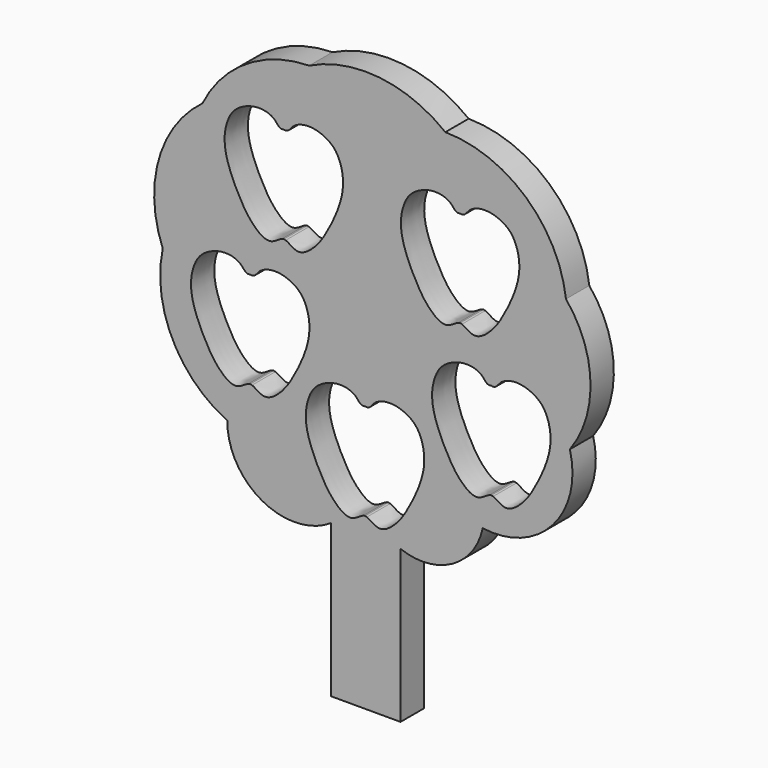
from build123d import *

# Parameters (mm, degrees)
F1_DEPTH = 10


with BuildPart() as f1:
    # F0 (on Front) → F1 (new body)
    with BuildSketch(Plane.XZ):
        with BuildLine():
            ThreePointArc((-55.0221759697, 53.7752209797), (-70.04246905, 31.9306491766), (-68.6410428362, 5.4574452519))
            ThreePointArc((-68.6410428362, 5.4574452519), (-65.3463944848, -20.7921357055), (-46.4886293933, -39.346916867))
            ThreePointArc((-46.4886293933, -39.346916867), (-34.4822621565, -59.6694789964), (-10.8979146439, -58.7010069363))
            Line((-10.8979146439, -58.7010069363), (-10.8979146439, -111.0147237778))
            Line((-10.8979146439, -111.0147237778), (12.958467938, -111.0147237778))
            Line((12.958467938, -111.0147237778), (12.958467938, -58.7010069363))
            ThreePointArc((12.958467938, -58.7010069363), (30.6230560256, -57.5221463701), (41.1689324294, -43.3020241689))
            ThreePointArc((41.1689324294, -43.3020241689), (65.1490821133, -34.5689265367), (71.0811689496, -9.7470628098))
            ThreePointArc((71.0811689496, -9.7470628098), (78.1656779108, 12.9733519988), (69.7538852692, 35.2365337312))
            ThreePointArc((69.7538852692, 35.2365337312), (56.0091120493, 61.5057285022), (28.3521022648, 72.1865147352))
            ThreePointArc((28.3521022648, 72.1865147352), (5.683401235, 81.348077967), (-18.3918476105, 77.0834982395))
            ThreePointArc((-18.3918476105, 77.0834982395), (-39.9820334942, 70.5762488055), (-55.0221759697, 53.7752209797))
        make_face()
        with BuildLine():
            add(Edge.make_bspline(
                [(0.7816050202, -19.6077078231), (-0.7980215026, -20.0845219521), (-1.9346121315, -16.9422810991), (-8.2942120837, -15.0926358593), (-15.3470111495, -17.82254635), (-18.8281511885, -22.6171471508), (-20.6271102372, -32.254706591), (-14.3615004988, -45.6827956415), (-9.9866279863, -52.0488902731), (-4.1460982187, -56.2817105885), (-0.985007439, -53.297327387), (0.1487659705, -52.8680482143)],
                knots=[0, 0, 0, 0, 0.0738359991, 0.1697784616, 0.2736968542, 0.3649262349, 0.4831888416, 0.631218602, 0.7423655569, 0.8384222869, 0.9112378734, 0.9112378734, 0.9112378734, 0.9112378734], degree=3))
            add(Edge.make_bspline(
                [(0.7816050202, -19.6077078231), (2.361231543, -20.0845219521), (3.4978221718, -16.9422810991), (9.857422124, -15.0926358593), (16.9102211898, -17.82254635), (20.3913612288, -22.6171471508), (22.1903202776, -32.254706591), (15.9247105391, -45.6827956415), (11.5498380267, -52.0488902731), (5.7093082591, -56.2817105885), (2.5482174793, -53.297327387), (1.4144440698, -52.8680482143)],
                knots=[0, 0, 0, 0, 0.0738359991, 0.1697784616, 0.2736968542, 0.3649262349, 0.4831888416, 0.631218602, 0.7423655569, 0.8384222869, 0.9112378734, 0.9112378734, 0.9112378734, 0.9112378734], degree=3))
            add(Edge.make_bspline(
                [(1.4144440698, -52.8680482143), (1.1944736707, -52.7847611041), (0.9831327016, -52.7337540842), (0.7816050019, -52.7288084496)],
                knots=[0.9112378734, 0.9112378734, 0.9112378734, 0.9112378734, 0.9253652762, 0.9253652762, 0.9253652762, 0.9253652762], degree=3))
            add(Edge.make_bspline(
                [(0.1487659705, -52.8680482143), (0.3687363696, -52.7847611041), (0.5800773196, -52.7337540888), (0.7816050019, -52.7288084505)],
                knots=[0.9112378734, 0.9112378734, 0.9112378734, 0.9112378734, 0.9253652762, 0.9253652762, 0.9253652762, 0.9253652762], degree=3))
        make_face(mode=Mode.SUBTRACT)
        with BuildLine():
            add(Edge.make_bspline(
                [(44.1311465162, 0.7165716961), (42.5515199934, 0.2397575672), (41.4149293645, 3.3819984201), (35.0553294123, 5.2316436599), (28.0025303465, 2.5017331693), (24.5213903075, -2.2928676316), (22.7224312588, -11.9304270717), (28.9880409972, -25.3585161222), (33.3629135097, -31.7246107538), (39.2034432773, -35.9574310693), (42.364534057, -32.9730478678), (43.4983074665, -32.5437686951)],
                knots=[0, 0, 0, 0, 0.0738359991, 0.1697784616, 0.2736968542, 0.3649262349, 0.4831888416, 0.631218602, 0.7423655569, 0.8384222869, 0.9112378734, 0.9112378734, 0.9112378734, 0.9112378734], degree=3))
            add(Edge.make_bspline(
                [(44.1311465162, 0.7165716961), (45.710773039, 0.2397575672), (46.8473636678, 3.3819984201), (53.20696362, 5.2316436599), (60.2597626858, 2.5017331693), (63.7409027248, -2.2928676316), (65.5398617736, -11.9304270717), (59.2742520351, -25.3585161222), (54.8993795226, -31.7246107538), (49.0588497551, -35.9574310693), (45.8977589753, -32.9730478678), (44.7639855658, -32.5437686951)],
                knots=[0, 0, 0, 0, 0.0738359991, 0.1697784616, 0.2736968542, 0.3649262349, 0.4831888416, 0.631218602, 0.7423655569, 0.8384222869, 0.9112378734, 0.9112378734, 0.9112378734, 0.9112378734], degree=3))
            add(Edge.make_bspline(
                [(44.7639855658, -32.5437686951), (44.5440151667, -32.4604815849), (44.3326741976, -32.409474565), (44.1311464979, -32.4045289303)],
                knots=[0.9112378734, 0.9112378734, 0.9112378734, 0.9112378734, 0.9253652762, 0.9253652762, 0.9253652762, 0.9253652762], degree=3))
            add(Edge.make_bspline(
                [(43.4983074665, -32.5437686951), (43.7182778656, -32.4604815849), (43.9296188156, -32.4094745696), (44.1311464979, -32.4045289312)],
                knots=[0.9112378734, 0.9112378734, 0.9112378734, 0.9112378734, 0.9253652762, 0.9253652762, 0.9253652762, 0.9253652762], degree=3))
        make_face(mode=Mode.SUBTRACT)
        with BuildLine():
            add(Edge.make_bspline(
                [(-38.6194912717, 7.4185440317), (-40.1991177945, 6.9417299027), (-41.3357084233, 10.0839707557), (-47.6953083755, 11.9336159955), (-54.7481074413, 9.2037055048), (-58.2292474803, 4.409104704), (-60.0282065291, -5.2284547362), (-53.7625967907, -18.6565437866), (-49.3877242782, -25.0226384183), (-43.5471945106, -29.2554587337), (-40.3861037308, -26.2710755322), (-39.2523303213, -25.8417963595)],
                knots=[0, 0, 0, 0, 0.0738359991, 0.1697784616, 0.2736968542, 0.3649262349, 0.4831888416, 0.631218602, 0.7423655569, 0.8384222869, 0.9112378734, 0.9112378734, 0.9112378734, 0.9112378734], degree=3))
            add(Edge.make_bspline(
                [(-38.6194912717, 7.4185440317), (-37.0398647489, 6.9417299027), (-35.90327412, 10.0839707557), (-29.5436741679, 11.9336159955), (-22.490875102, 9.2037055048), (-19.009735063, 4.409104704), (-17.2107760143, -5.2284547362), (-23.4763857527, -18.6565437866), (-27.8512582652, -25.0226384183), (-33.6917880328, -29.2554587337), (-36.8528788125, -26.2710755322), (-37.986652222, -25.8417963595)],
                knots=[0, 0, 0, 0, 0.0738359991, 0.1697784616, 0.2736968542, 0.3649262349, 0.4831888416, 0.631218602, 0.7423655569, 0.8384222869, 0.9112378734, 0.9112378734, 0.9112378734, 0.9112378734], degree=3))
            add(Edge.make_bspline(
                [(-37.986652222, -25.8417963595), (-38.2066226211, -25.7585092493), (-38.4179635903, -25.7075022294), (-38.6194912899, -25.7025565948)],
                knots=[0.9112378734, 0.9112378734, 0.9112378734, 0.9112378734, 0.9253652762, 0.9253652762, 0.9253652762, 0.9253652762], degree=3))
            add(Edge.make_bspline(
                [(-39.2523303213, -25.8417963595), (-39.0323599222, -25.7585092493), (-38.8210189722, -25.707502234), (-38.6194912899, -25.7025565957)],
                knots=[0.9112378734, 0.9112378734, 0.9112378734, 0.9112378734, 0.9253652762, 0.9253652762, 0.9253652762, 0.9253652762], degree=3))
        make_face(mode=Mode.SUBTRACT)
        with BuildLine():
            add(Edge.make_bspline(
                [(-27.0840385929, 54.9582471489), (-28.6636651157, 54.48143302), (-29.8002557445, 57.623673873), (-36.1598556967, 59.4733191128), (-43.2126547625, 56.7434086221), (-46.6937948015, 51.9488078213), (-48.4927538503, 42.3112483811), (-42.2271441119, 28.8831593306), (-37.8522715994, 22.517064699), (-32.0117418318, 18.2842443835), (-28.850651052, 21.2686275851), (-27.7168776425, 21.6979067577)],
                knots=[0, 0, 0, 0, 0.0738359991, 0.1697784616, 0.2736968542, 0.3649262349, 0.4831888416, 0.631218602, 0.7423655569, 0.8384222869, 0.9112378734, 0.9112378734, 0.9112378734, 0.9112378734], degree=3))
            add(Edge.make_bspline(
                [(-27.0840385929, 54.9582471489), (-25.5044120701, 54.48143302), (-24.3678214412, 57.623673873), (-18.0082214891, 59.4733191128), (-10.9554224232, 56.7434086221), (-7.4742823842, 51.9488078213), (-5.6753233355, 42.3112483811), (-11.9409330739, 28.8831593306), (-16.3158055864, 22.517064699), (-22.156335354, 18.2842443835), (-25.3174261337, 21.2686275851), (-26.4511995432, 21.6979067577)],
                knots=[0, 0, 0, 0, 0.0738359991, 0.1697784616, 0.2736968542, 0.3649262349, 0.4831888416, 0.631218602, 0.7423655569, 0.8384222869, 0.9112378734, 0.9112378734, 0.9112378734, 0.9112378734], degree=3))
            add(Edge.make_bspline(
                [(-26.4511995432, 21.6979067577), (-26.6711699423, 21.781193868), (-26.8825108924, 21.8322008832), (-27.0840385746, 21.8371465216)],
                knots=[0.9112378734, 0.9112378734, 0.9112378734, 0.9112378734, 0.9253652762, 0.9253652762, 0.9253652762, 0.9253652762], degree=3))
            add(Edge.make_bspline(
                [(-27.7168776425, 21.6979067577), (-27.4969072434, 21.781193868), (-27.2855662743, 21.8322008878), (-27.0840385746, 21.8371465225)],
                knots=[0.9112378734, 0.9112378734, 0.9112378734, 0.9112378734, 0.9253652762, 0.9253652762, 0.9253652762, 0.9253652762], degree=3))
        make_face(mode=Mode.SUBTRACT)
        with BuildLine():
            add(Edge.make_bspline(
                [(33.4252053872, 49.2920251563), (31.8455788644, 48.8152110274), (30.7089882355, 51.9574518803), (24.3493882834, 53.8070971202), (17.2965892175, 51.0771866295), (13.8154491785, 46.2825858287), (12.0164901298, 36.6450263885), (18.2820998682, 23.216937338), (22.6569723807, 16.8508427064), (28.4975021483, 12.6180223909), (31.658592928, 15.6024055924), (32.7923663375, 16.0316847651)],
                knots=[0, 0, 0, 0, 0.0738359991, 0.1697784616, 0.2736968542, 0.3649262349, 0.4831888416, 0.631218602, 0.7423655569, 0.8384222869, 0.9112378734, 0.9112378734, 0.9112378734, 0.9112378734], degree=3))
            add(Edge.make_bspline(
                [(33.4252053872, 49.2920251563), (35.00483191, 48.8152110274), (36.1414225388, 51.9574518803), (42.501022491, 53.8070971202), (49.5538215568, 51.0771866295), (53.0349615958, 46.2825858287), (54.8339206446, 36.6450263885), (48.5683109062, 23.216937338), (44.1934383937, 16.8508427064), (38.3529086261, 12.6180223909), (35.1918178463, 15.6024055924), (34.0580444368, 16.0316847651)],
                knots=[0, 0, 0, 0, 0.0738359991, 0.1697784616, 0.2736968542, 0.3649262349, 0.4831888416, 0.631218602, 0.7423655569, 0.8384222869, 0.9112378734, 0.9112378734, 0.9112378734, 0.9112378734], degree=3))
            add(Edge.make_bspline(
                [(34.0580444368, 16.0316847651), (33.8380740377, 16.1149718753), (33.6267330686, 16.1659788952), (33.4252053689, 16.1709245299)],
                knots=[0.9112378734, 0.9112378734, 0.9112378734, 0.9112378734, 0.9253652762, 0.9253652762, 0.9253652762, 0.9253652762], degree=3))
            add(Edge.make_bspline(
                [(32.7923663375, 16.0316847651), (33.0123367366, 16.1149718753), (33.2236776867, 16.1659788906), (33.4252053689, 16.170924529)],
                knots=[0.9112378734, 0.9112378734, 0.9112378734, 0.9112378734, 0.9253652762, 0.9253652762, 0.9253652762, 0.9253652762], degree=3))
        make_face(mode=Mode.SUBTRACT)
    extrude(amount=F1_DEPTH)


solid = f1.part
